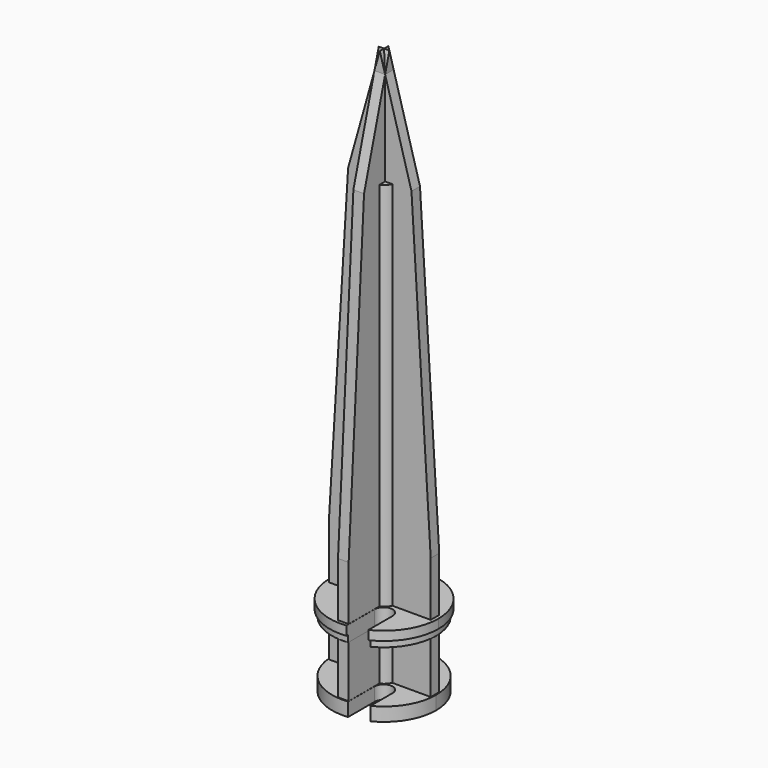
from build123d import *

# Parameters (mm, degrees)
F0_R     = 3
F1_DEPTH = 3
F2_START = -14.5
F2_DEPTH = 1.5
F3_START = 16
F3_DEPTH = 2
F6_DEPTH = 18.001
F7_DEPTH = 1.175
F8_DEPTH = 1.175
F9_DEPTH = 100


with BuildPart() as f1:
    # F0 (on Top) → F1 (new body)
    with BuildSketch(Plane.XY):
        with BuildLine():
            ThreePointArc((5.2, -10.2571925984), (9.799234664, -6.0187207943), (11.5, 0))
            ThreePointArc((11.5, 0), (-8.5454666344, 7.6957780633), (1.2, -11.4372199419))
            Line((1.2, -11.4372199419), (1.2, -4.1398492453))
            ThreePointArc((1.2, -4.1398492453), (3.2, -2.1398492453), (5.2, -4.1398492453))
            Line((5.2, -4.1398492453), (5.2, -10.2571925984))
        make_face()
        Circle(F0_R, mode=Mode.SUBTRACT)
        Circle(F0_R)
    extrude(amount=F1_DEPTH)

    # F0 (on Top) → F6 (cut, through all)
    with BuildSketch(Plane.XY):
        with BuildLine():
            Line((1.2, -4.1398492453), (1.2, -11.4372199419))
            ThreePointArc((1.2, -11.4372199419), (3.253938557, -11.0300445995), (5.2, -10.2571925984))
            Line((5.2, -10.2571925984), (5.2, -4.1398492453))
            ThreePointArc((5.2, -4.1398492453), (3.2, -2.1398492453), (1.2, -4.1398492453))
        make_face()
        with BuildLine():
            ThreePointArc((5.2, -10.2571925984), (3.253938557, -11.0300445995), (1.2, -11.4372199419))
            Line((1.2, -11.4372199419), (1.2, -11.9398492453))
            ThreePointArc((1.2, -11.9398492453), (3.2490662236, -11.5517777279), (5.2, -10.8148046677))
            Line((5.2, -10.8148046677), (5.2, -10.2571925984))
        make_face()
    extrude(amount=F6_DEPTH, mode=Mode.SUBTRACT)



with BuildPart() as f2:
    # F1_face (on face) → F2 (new body)
    with BuildSketch(Plane(origin=(-0.2778637097, 0.5964787123, 0), x_dir=(1, 0, 0), z_dir=(0, 0, -1)).offset(F2_START)):
        with BuildLine():
            ThreePointArc((1.4778637097, 12.0336986542), (-2.9760748473, -10.4335658873), (5.4778637097, 10.8536713106))
            Line((5.4778637097, 10.8536713106), (5.4778637097, 4.7363279575))
            ThreePointArc((5.4778637097, 4.7363279575), (3.4778637097, 2.7363279575), (1.4778637097, 4.7363279575))
            Line((1.4778637097, 4.7363279575), (1.4778637097, 12.0336986542))
        make_face()
    extrude(amount=-F2_DEPTH)


with BuildPart() as f3:
    # F0 (on Top) → F3 (new body)
    with BuildSketch(Plane.XY.offset(F3_START)):
        with BuildLine():
            ThreePointArc((5.2, -10.2571925984), (9.799234664, -6.0187207943), (11.5, 0))
            ThreePointArc((11.5, 0), (-8.5454666344, 7.6957780633), (1.2, -11.4372199419))
            Line((1.2, -11.4372199419), (1.2, -4.1398492453))
            ThreePointArc((1.2, -4.1398492453), (3.2, -2.1398492453), (5.2, -4.1398492453))
            Line((5.2, -4.1398492453), (5.2, -10.2571925984))
        make_face()
        Circle(F0_R, mode=Mode.SUBTRACT)
        with BuildLine():
            ThreePointArc((1.2, -11.4372199419), (-8.5454666344, 7.6957780633), (11.5, 0))
            ThreePointArc((11.5, 0), (9.799234664, -6.0187207943), (5.2, -10.2571925984))
            Line((5.2, -10.2571925984), (5.2, -10.8148046677))
            ThreePointArc((5.2, -10.8148046677), (10.1587400794, -6.3874877691), (12, 0))
            ThreePointArc((12, 0), (-8.8994381845, 8.049844719), (1.2, -11.9398492453))
            Line((1.2, -11.9398492453), (1.2, -11.4372199419))
        make_face()
        Circle(F0_R)
    extrude(amount=F3_DEPTH)


with BuildPart() as f7:
    # F4 (on Front) → F7 (new body, symmetric)
    with BuildSketch(Plane.XZ):
        Polygon((-11.25, 30), (-11.25, 0), (0, 0), (11.25, 0), (11.25, 30), (7, 100), (0, 125), (-7, 100), align=None)
    extrude(amount=F7_DEPTH, both=True)


with BuildPart() as f8:
    # F5 (on Right) → F8 (new body, symmetric)
    with BuildSketch(Plane.YZ):
        Polygon((-11.25, 30), (-11.25, 0), (0, 0), (11.25, 0), (11.25, 30), (7, 100), (0, 125), (-7, 100), align=None)
    extrude(amount=F8_DEPTH, both=True)


with BuildPart() as f1_1:
    add(f1.part)

    add(f2.part)  # F9 merges F2

    add(f3.part)  # F9 merges F3

    add(f7.part)  # F9 merges F7

    add(f8.part)  # F9 merges F8
    # F0 (on Top) → F9 (join)
    with BuildSketch(Plane.XY):
        Circle(F0_R)
    extrude(amount=F9_DEPTH)


solid = f1_1.part
